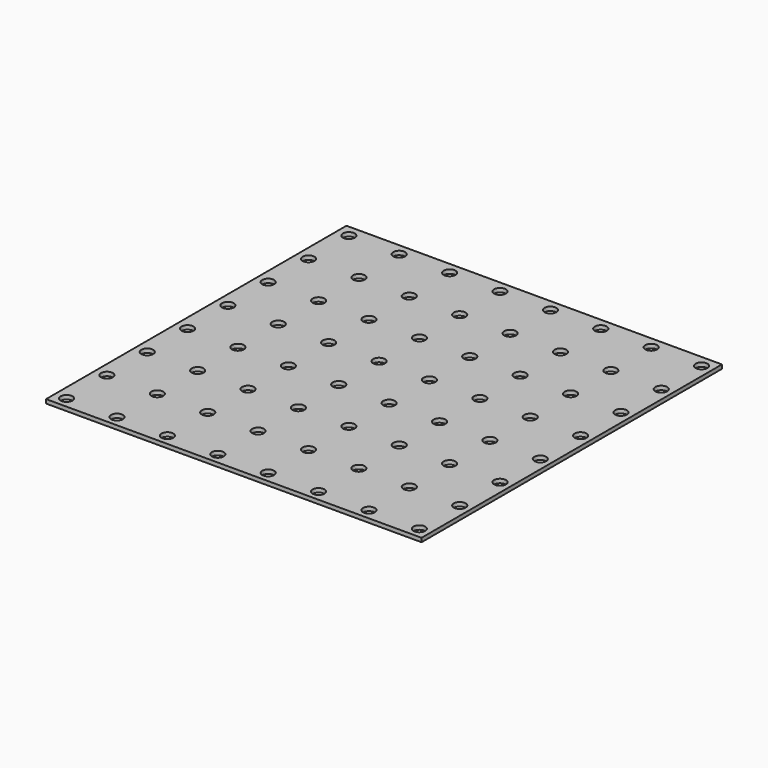
from build123d import *

# Parameters (mm, degrees)
F0_W     = 95
F0_H     = 95
F0_R     = 1.5
F1_DEPTH = 1


with BuildPart() as f1:
    # F0 (on Top) → F1 (new body)
    with BuildSketch(Plane.XY):
        Rectangle(F0_W, F0_H)
        with Locations((-44.5, -44.75)):
            Circle(F0_R, mode=Mode.SUBTRACT)
        with Locations((-31.75, -44.75)):
            Circle(F0_R, mode=Mode.SUBTRACT)
        with Locations((-44.5, -32)):
            Circle(F0_R, mode=Mode.SUBTRACT)
        with Locations((-31.75, -32)):
            Circle(F0_R, mode=Mode.SUBTRACT)
        with Locations((-19, -44.75)):
            Circle(F0_R, mode=Mode.SUBTRACT)
        with Locations((-6.25, -44.75)):
            Circle(F0_R, mode=Mode.SUBTRACT)
        with Locations((-19, -32)):
            Circle(F0_R, mode=Mode.SUBTRACT)
        with Locations((-6.25, -32)):
            Circle(F0_R, mode=Mode.SUBTRACT)
        with Locations((-44.5, -19.25)):
            Circle(F0_R, mode=Mode.SUBTRACT)
        with Locations((-31.75, -19.25)):
            Circle(F0_R, mode=Mode.SUBTRACT)
        with Locations((-44.5, -6.5)):
            Circle(F0_R, mode=Mode.SUBTRACT)
        with Locations((-31.75, -6.5)):
            Circle(F0_R, mode=Mode.SUBTRACT)
        with Locations((-19, -19.25)):
            Circle(F0_R, mode=Mode.SUBTRACT)
        with Locations((-6.25, -19.25)):
            Circle(F0_R, mode=Mode.SUBTRACT)
        with Locations((-19, -6.5)):
            Circle(F0_R, mode=Mode.SUBTRACT)
        with Locations((-6.25, -6.5)):
            Circle(F0_R, mode=Mode.SUBTRACT)
        with Locations((6.5, -44.75)):
            Circle(F0_R, mode=Mode.SUBTRACT)
        with Locations((19.25, -44.75)):
            Circle(F0_R, mode=Mode.SUBTRACT)
        with Locations((6.5, -32)):
            Circle(F0_R, mode=Mode.SUBTRACT)
        with Locations((19.25, -32)):
            Circle(F0_R, mode=Mode.SUBTRACT)
        with Locations((32, -44.75)):
            Circle(F0_R, mode=Mode.SUBTRACT)
        with Locations((44.75, -44.75)):
            Circle(F0_R, mode=Mode.SUBTRACT)
        with Locations((32, -32)):
            Circle(F0_R, mode=Mode.SUBTRACT)
        with Locations((44.75, -32)):
            Circle(F0_R, mode=Mode.SUBTRACT)
        with Locations((6.5, -19.25)):
            Circle(F0_R, mode=Mode.SUBTRACT)
        with Locations((19.25, -19.25)):
            Circle(F0_R, mode=Mode.SUBTRACT)
        with Locations((6.5, -6.5)):
            Circle(F0_R, mode=Mode.SUBTRACT)
        with Locations((19.25, -6.5)):
            Circle(F0_R, mode=Mode.SUBTRACT)
        with Locations((32, -19.25)):
            Circle(F0_R, mode=Mode.SUBTRACT)
        with Locations((44.75, -19.25)):
            Circle(F0_R, mode=Mode.SUBTRACT)
        with Locations((32, -6.5)):
            Circle(F0_R, mode=Mode.SUBTRACT)
        with Locations((44.75, -6.5)):
            Circle(F0_R, mode=Mode.SUBTRACT)
        with Locations((-44.5, 6.25)):
            Circle(F0_R, mode=Mode.SUBTRACT)
        with Locations((-31.75, 6.25)):
            Circle(F0_R, mode=Mode.SUBTRACT)
        with Locations((-44.5, 19)):
            Circle(F0_R, mode=Mode.SUBTRACT)
        with Locations((-31.75, 19)):
            Circle(F0_R, mode=Mode.SUBTRACT)
        with Locations((-19, 6.25)):
            Circle(F0_R, mode=Mode.SUBTRACT)
        with Locations((-6.25, 6.25)):
            Circle(F0_R, mode=Mode.SUBTRACT)
        with Locations((-19, 19)):
            Circle(F0_R, mode=Mode.SUBTRACT)
        with Locations((-6.25, 19)):
            Circle(F0_R, mode=Mode.SUBTRACT)
        with Locations((-44.5, 31.75)):
            Circle(F0_R, mode=Mode.SUBTRACT)
        with Locations((-31.75, 31.75)):
            Circle(F0_R, mode=Mode.SUBTRACT)
        with Locations((-44.5, 44.5)):
            Circle(F0_R, mode=Mode.SUBTRACT)
        with Locations((-31.75, 44.5)):
            Circle(F0_R, mode=Mode.SUBTRACT)
        with Locations((-19, 31.75)):
            Circle(F0_R, mode=Mode.SUBTRACT)
        with Locations((-6.25, 31.75)):
            Circle(F0_R, mode=Mode.SUBTRACT)
        with Locations((-19, 44.5)):
            Circle(F0_R, mode=Mode.SUBTRACT)
        with Locations((-6.25, 44.5)):
            Circle(F0_R, mode=Mode.SUBTRACT)
        with Locations((6.5, 6.25)):
            Circle(F0_R, mode=Mode.SUBTRACT)
        with Locations((19.25, 6.25)):
            Circle(F0_R, mode=Mode.SUBTRACT)
        with Locations((6.5, 19)):
            Circle(F0_R, mode=Mode.SUBTRACT)
        with Locations((19.25, 19)):
            Circle(F0_R, mode=Mode.SUBTRACT)
        with Locations((32, 6.25)):
            Circle(F0_R, mode=Mode.SUBTRACT)
        with Locations((44.75, 6.25)):
            Circle(F0_R, mode=Mode.SUBTRACT)
        with Locations((32, 19)):
            Circle(F0_R, mode=Mode.SUBTRACT)
        with Locations((44.75, 19)):
            Circle(F0_R, mode=Mode.SUBTRACT)
        with Locations((6.5, 31.75)):
            Circle(F0_R, mode=Mode.SUBTRACT)
        with Locations((19.25, 31.75)):
            Circle(F0_R, mode=Mode.SUBTRACT)
        with Locations((6.5, 44.5)):
            Circle(F0_R, mode=Mode.SUBTRACT)
        with Locations((19.25, 44.5)):
            Circle(F0_R, mode=Mode.SUBTRACT)
        with Locations((32, 31.75)):
            Circle(F0_R, mode=Mode.SUBTRACT)
        with Locations((44.75, 31.75)):
            Circle(F0_R, mode=Mode.SUBTRACT)
        with Locations((32, 44.5)):
            Circle(F0_R, mode=Mode.SUBTRACT)
        with Locations((44.75, 44.5)):
            Circle(F0_R, mode=Mode.SUBTRACT)
    extrude(amount=F1_DEPTH)


solid = f1.part
